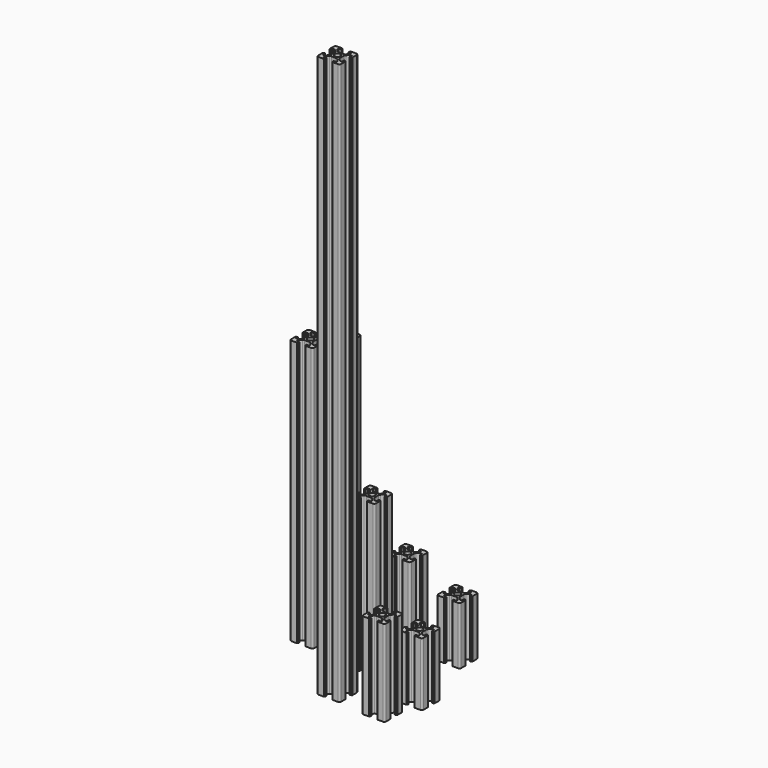
from build123d import *

# Parameters (mm, degrees)
F0_R      = 2.5
F1_DEPTH  = 192
F2_R      = 2.5
F3_DEPTH  = 230
F4_R      = 2.5
F5_DEPTH  = 60
F6_R      = 2.5
F7_DEPTH  = 132
F8_R      = 2.5
F9_DEPTH  = 488
F10_R     = 2.5
F11_DEPTH = 50
F12_R     = 2.5
F13_DEPTH = 55
F14_R     = 2.5
F15_DEPTH = 75


with BuildPart() as f1:
    # F0 (on Top) → F1 (new body)
    with BuildSketch(Plane.XY):
        with BuildLine():
            Line((-233.802474, 78.483754), (-230.802474, 78.483754))
            ThreePointArc((-230.802474, 78.483754), (-229.741813, 78.923094), (-229.302474, 79.983754))
            Line((-229.302474, 79.983754), (-229.302474, 82.983754))
            Line((-229.302474, 82.983754), (-229.302474, 84.883754))
            Line((-229.302474, 84.883754), (-229.602474, 84.883754))
            ThreePointArc((-229.602474, 84.883754), (-229.743895, 84.942332), (-229.802474, 85.083754))
            Line((-229.802474, 85.083754), (-229.802474, 85.383754))
            Line((-229.802474, 85.383754), (-231.102474, 85.383754))
            Line((-231.102474, 85.383754), (-231.102474, 82.983754))
            Line((-231.102474, 82.983754), (-232.741813, 82.983754))
            Line((-232.741813, 82.983754), (-234.816687, 85.058627))
            ThreePointArc((-234.816687, 85.058627), (-235.250233, 85.707474), (-235.402474, 86.472841))
            Line((-235.402474, 86.472841), (-235.402474, 90.494666))
            ThreePointArc((-235.402474, 90.494666), (-235.250233, 91.260033), (-234.816687, 91.90888))
            Line((-234.816687, 91.90888), (-232.741813, 93.983754))
            Line((-232.741813, 93.983754), (-231.102474, 93.983754))
            Line((-231.102474, 93.983754), (-231.102474, 91.583754))
            Line((-231.102474, 91.583754), (-229.802474, 91.583754))
            Line((-229.802474, 91.583754), (-229.802474, 91.883754))
            ThreePointArc((-229.802474, 91.883754), (-229.743895, 92.025175), (-229.602474, 92.083754))
            Line((-229.602474, 92.083754), (-229.302474, 92.083754))
            Line((-229.302474, 92.083754), (-229.302474, 93.983754))
            Line((-229.302474, 93.983754), (-229.302474, 96.983754))
            ThreePointArc((-229.302474, 96.983754), (-229.741813, 98.044414), (-230.802474, 98.483754))
            Line((-230.802474, 98.483754), (-233.802474, 98.483754))
            Line((-233.802474, 98.483754), (-235.202474, 98.483754))
            Line((-235.202474, 98.483754), (-235.702474, 98.483754))
            Line((-235.702474, 98.483754), (-235.702474, 98.183754))
            ThreePointArc((-235.702474, 98.183754), (-235.761052, 98.042332), (-235.902474, 97.983754))
            Line((-235.902474, 97.983754), (-236.202474, 97.983754))
            Line((-236.202474, 97.983754), (-236.202474, 96.683754))
            Line((-236.202474, 96.683754), (-233.802474, 96.683754))
            Line((-233.802474, 96.683754), (-233.802474, 95.044414))
            Line((-233.802474, 95.044414), (-235.877347, 92.96954))
            ThreePointArc((-235.877347, 92.96954), (-236.526194, 92.535995), (-237.291561, 92.383754))
            Line((-237.291561, 92.383754), (-241.313386, 92.383754))
            ThreePointArc((-241.313386, 92.383754), (-242.078753, 92.535995), (-242.7276, 92.96954))
            Line((-242.7276, 92.96954), (-244.802474, 95.044414))
            Line((-244.802474, 95.044414), (-244.802474, 96.683754))
            Line((-244.802474, 96.683754), (-242.402474, 96.683754))
            Line((-242.402474, 96.683754), (-242.402474, 97.983754))
            Line((-242.402474, 97.983754), (-242.702474, 97.983754))
            ThreePointArc((-242.702474, 97.983754), (-242.843895, 98.042332), (-242.902474, 98.183754))
            Line((-242.902474, 98.183754), (-242.902474, 98.483754))
            Line((-242.902474, 98.483754), (-243.402474, 98.483754))
            Line((-243.402474, 98.483754), (-244.802474, 98.483754))
            Line((-244.802474, 98.483754), (-247.802474, 98.483754))
            ThreePointArc((-247.802474, 98.483754), (-248.863134, 98.044414), (-249.302474, 96.983754))
            Line((-249.302474, 96.983754), (-249.302474, 93.983754))
            Line((-249.302474, 93.983754), (-249.302474, 92.083754))
            Line((-249.302474, 92.083754), (-249.002474, 92.083754))
            ThreePointArc((-249.002474, 92.083754), (-248.861052, 92.025175), (-248.802474, 91.883754))
            Line((-248.802474, 91.883754), (-248.802474, 91.583754))
            Line((-248.802474, 91.583754), (-247.502474, 91.583754))
            Line((-247.502474, 91.583754), (-247.502474, 93.983754))
            Line((-247.502474, 93.983754), (-245.863134, 93.983754))
            Line((-245.863134, 93.983754), (-243.78826, 91.90888))
            ThreePointArc((-243.78826, 91.90888), (-243.354715, 91.260033), (-243.202474, 90.494666))
            Line((-243.202474, 90.494666), (-243.202474, 86.472841))
            ThreePointArc((-243.202474, 86.472841), (-243.354715, 85.707474), (-243.78826, 85.058627))
            Line((-243.78826, 85.058627), (-245.863134, 82.983754))
            Line((-245.863134, 82.983754), (-247.502474, 82.983754))
            Line((-247.502474, 82.983754), (-247.502474, 85.383754))
            Line((-247.502474, 85.383754), (-248.802474, 85.383754))
            Line((-248.802474, 85.383754), (-248.802474, 85.083754))
            ThreePointArc((-248.802474, 85.083754), (-248.861052, 84.942332), (-249.002474, 84.883754))
            Line((-249.002474, 84.883754), (-249.302474, 84.883754))
            Line((-249.302474, 84.883754), (-249.302474, 82.983754))
            Line((-249.302474, 82.983754), (-249.302474, 79.983754))
            ThreePointArc((-249.302474, 79.983754), (-248.863134, 78.923094), (-247.802474, 78.483754))
            Line((-247.802474, 78.483754), (-244.802474, 78.483754))
            Line((-244.802474, 78.483754), (-243.402474, 78.483754))
            Line((-243.402474, 78.483754), (-242.902474, 78.483754))
            Line((-242.902474, 78.483754), (-242.902474, 78.783754))
            ThreePointArc((-242.902474, 78.783754), (-242.843895, 78.925175), (-242.702474, 78.983754))
            Line((-242.702474, 78.983754), (-242.402474, 78.983754))
            Line((-242.402474, 78.983754), (-242.402474, 80.283754))
            Line((-242.402474, 80.283754), (-244.802474, 80.283754))
            Line((-244.802474, 80.283754), (-244.802474, 81.923094))
            Line((-244.802474, 81.923094), (-242.7276, 83.997967))
            ThreePointArc((-242.7276, 83.997967), (-242.078753, 84.431513), (-241.313386, 84.583754))
            Line((-241.313386, 84.583754), (-237.291561, 84.583754))
            ThreePointArc((-237.291561, 84.583754), (-236.526194, 84.431513), (-235.877347, 83.997967))
            Line((-235.877347, 83.997967), (-233.802474, 81.923094))
            Line((-233.802474, 81.923094), (-233.802474, 80.283754))
            Line((-233.802474, 80.283754), (-236.202474, 80.283754))
            Line((-236.202474, 80.283754), (-236.202474, 78.983754))
            Line((-236.202474, 78.983754), (-235.902474, 78.983754))
            ThreePointArc((-235.902474, 78.983754), (-235.761052, 78.925175), (-235.702474, 78.783754))
            Line((-235.702474, 78.783754), (-235.702474, 78.483754))
            Line((-235.702474, 78.483754), (-235.202474, 78.483754))
            Line((-235.202474, 78.483754), (-233.802474, 78.483754))
        make_face()
        with Locations((-239.302474, 88.483754)):
            Circle(F0_R, mode=Mode.SUBTRACT)
    extrude(amount=F1_DEPTH)


with BuildPart() as f3:
    # F2 (on Top) → F3 (new body)
    with BuildSketch(Plane.XY):
        with BuildLine():
            Line((-201.904392, 5.549288), (-198.904392, 5.549288))
            ThreePointArc((-198.904392, 5.549288), (-197.843732, 5.988628), (-197.404392, 7.049288))
            Line((-197.404392, 7.049288), (-197.404392, 10.049288))
            Line((-197.404392, 10.049288), (-197.404392, 11.949288))
            Line((-197.404392, 11.949288), (-197.704392, 11.949288))
            ThreePointArc((-197.704392, 11.949288), (-197.845814, 12.007867), (-197.904392, 12.149288))
            Line((-197.904392, 12.149288), (-197.904392, 12.449288))
            Line((-197.904392, 12.449288), (-199.204392, 12.449288))
            Line((-199.204392, 12.449288), (-199.204392, 10.049288))
            Line((-199.204392, 10.049288), (-200.843732, 10.049288))
            Line((-200.843732, 10.049288), (-202.918606, 12.124162))
            ThreePointArc((-202.918606, 12.124162), (-203.352151, 12.773009), (-203.504392, 13.538376))
            Line((-203.504392, 13.538376), (-203.504392, 17.560201))
            ThreePointArc((-203.504392, 17.560201), (-203.352151, 18.325568), (-202.918606, 18.974415))
            Line((-202.918606, 18.974415), (-200.843732, 21.049288))
            Line((-200.843732, 21.049288), (-199.204392, 21.049288))
            Line((-199.204392, 21.049288), (-199.204392, 18.649288))
            Line((-199.204392, 18.649288), (-197.904392, 18.649288))
            Line((-197.904392, 18.649288), (-197.904392, 18.949288))
            ThreePointArc((-197.904392, 18.949288), (-197.845814, 19.09071), (-197.704392, 19.149288))
            Line((-197.704392, 19.149288), (-197.404392, 19.149288))
            Line((-197.404392, 19.149288), (-197.404392, 21.049288))
            Line((-197.404392, 21.049288), (-197.404392, 24.049288))
            ThreePointArc((-197.404392, 24.049288), (-197.843732, 25.109948), (-198.904392, 25.549288))
            Line((-198.904392, 25.549288), (-201.904392, 25.549288))
            Line((-201.904392, 25.549288), (-203.304392, 25.549288))
            Line((-203.304392, 25.549288), (-203.804392, 25.549288))
            Line((-203.804392, 25.549288), (-203.804392, 25.249288))
            ThreePointArc((-203.804392, 25.249288), (-203.862971, 25.107867), (-204.004392, 25.049288))
            Line((-204.004392, 25.049288), (-204.304392, 25.049288))
            Line((-204.304392, 25.049288), (-204.304392, 23.749288))
            Line((-204.304392, 23.749288), (-201.904392, 23.749288))
            Line((-201.904392, 23.749288), (-201.904392, 22.109948))
            Line((-201.904392, 22.109948), (-203.979266, 20.035075))
            ThreePointArc((-203.979266, 20.035075), (-204.628113, 19.601529), (-205.39348, 19.449288))
            Line((-205.39348, 19.449288), (-209.415305, 19.449288))
            ThreePointArc((-209.415305, 19.449288), (-210.180672, 19.601529), (-210.829519, 20.035075))
            Line((-210.829519, 20.035075), (-212.904392, 22.109948))
            Line((-212.904392, 22.109948), (-212.904392, 23.749288))
            Line((-212.904392, 23.749288), (-210.504392, 23.749288))
            Line((-210.504392, 23.749288), (-210.504392, 25.049288))
            Line((-210.504392, 25.049288), (-210.804392, 25.049288))
            ThreePointArc((-210.804392, 25.049288), (-210.945814, 25.107867), (-211.004392, 25.249288))
            Line((-211.004392, 25.249288), (-211.004392, 25.549288))
            Line((-211.004392, 25.549288), (-211.504392, 25.549288))
            Line((-211.504392, 25.549288), (-212.904392, 25.549288))
            Line((-212.904392, 25.549288), (-215.904392, 25.549288))
            ThreePointArc((-215.904392, 25.549288), (-216.965053, 25.109948), (-217.404392, 24.049288))
            Line((-217.404392, 24.049288), (-217.404392, 21.049288))
            Line((-217.404392, 21.049288), (-217.404392, 19.149288))
            Line((-217.404392, 19.149288), (-217.104392, 19.149288))
            ThreePointArc((-217.104392, 19.149288), (-216.962971, 19.09071), (-216.904392, 18.949288))
            Line((-216.904392, 18.949288), (-216.904392, 18.649288))
            Line((-216.904392, 18.649288), (-215.604392, 18.649288))
            Line((-215.604392, 18.649288), (-215.604392, 21.049288))
            Line((-215.604392, 21.049288), (-213.965053, 21.049288))
            Line((-213.965053, 21.049288), (-211.890179, 18.974415))
            ThreePointArc((-211.890179, 18.974415), (-211.456633, 18.325568), (-211.304392, 17.560201))
            Line((-211.304392, 17.560201), (-211.304392, 13.538376))
            ThreePointArc((-211.304392, 13.538376), (-211.456633, 12.773009), (-211.890179, 12.124162))
            Line((-211.890179, 12.124162), (-213.965053, 10.049288))
            Line((-213.965053, 10.049288), (-215.604392, 10.049288))
            Line((-215.604392, 10.049288), (-215.604392, 12.449288))
            Line((-215.604392, 12.449288), (-216.904392, 12.449288))
            Line((-216.904392, 12.449288), (-216.904392, 12.149288))
            ThreePointArc((-216.904392, 12.149288), (-216.962971, 12.007867), (-217.104392, 11.949288))
            Line((-217.104392, 11.949288), (-217.404392, 11.949288))
            Line((-217.404392, 11.949288), (-217.404392, 10.049288))
            Line((-217.404392, 10.049288), (-217.404392, 7.049288))
            ThreePointArc((-217.404392, 7.049288), (-216.965053, 5.988628), (-215.904392, 5.549288))
            Line((-215.904392, 5.549288), (-212.904392, 5.549288))
            Line((-212.904392, 5.549288), (-211.504392, 5.549288))
            Line((-211.504392, 5.549288), (-211.004392, 5.549288))
            Line((-211.004392, 5.549288), (-211.004392, 5.849288))
            ThreePointArc((-211.004392, 5.849288), (-210.945814, 5.99071), (-210.804392, 6.049288))
            Line((-210.804392, 6.049288), (-210.504392, 6.049288))
            Line((-210.504392, 6.049288), (-210.504392, 7.349288))
            Line((-210.504392, 7.349288), (-212.904392, 7.349288))
            Line((-212.904392, 7.349288), (-212.904392, 8.988628))
            Line((-212.904392, 8.988628), (-210.829519, 11.063502))
            ThreePointArc((-210.829519, 11.063502), (-210.180672, 11.497047), (-209.415305, 11.649288))
            Line((-209.415305, 11.649288), (-205.39348, 11.649288))
            ThreePointArc((-205.39348, 11.649288), (-204.628113, 11.497047), (-203.979266, 11.063502))
            Line((-203.979266, 11.063502), (-201.904392, 8.988628))
            Line((-201.904392, 8.988628), (-201.904392, 7.349288))
            Line((-201.904392, 7.349288), (-204.304392, 7.349288))
            Line((-204.304392, 7.349288), (-204.304392, 6.049288))
            Line((-204.304392, 6.049288), (-204.004392, 6.049288))
            ThreePointArc((-204.004392, 6.049288), (-203.862971, 5.99071), (-203.804392, 5.849288))
            Line((-203.804392, 5.849288), (-203.804392, 5.549288))
            Line((-203.804392, 5.549288), (-203.304392, 5.549288))
            Line((-203.304392, 5.549288), (-201.904392, 5.549288))
        make_face()
        with Locations((-207.404392, 15.549288)):
            Circle(F2_R, mode=Mode.SUBTRACT)
    extrude(amount=F3_DEPTH)


with BuildPart() as f5:
    # F4 (on Top) → F5 (new body)
    with BuildSketch(Plane.XY):
        with BuildLine():
            Line((-157.749748, 55.951112), (-154.749748, 55.951112))
            ThreePointArc((-154.749748, 55.951112), (-153.689088, 56.390452), (-153.249748, 57.451112))
            Line((-153.249748, 57.451112), (-153.249748, 60.451112))
            Line((-153.249748, 60.451112), (-153.249748, 62.351112))
            Line((-153.249748, 62.351112), (-153.549748, 62.351112))
            ThreePointArc((-153.549748, 62.351112), (-153.69117, 62.40969), (-153.749748, 62.551112))
            Line((-153.749748, 62.551112), (-153.749748, 62.851112))
            Line((-153.749748, 62.851112), (-155.049748, 62.851112))
            Line((-155.049748, 62.851112), (-155.049748, 60.451112))
            Line((-155.049748, 60.451112), (-156.689088, 60.451112))
            Line((-156.689088, 60.451112), (-158.763962, 62.525986))
            ThreePointArc((-158.763962, 62.525986), (-159.197507, 63.174832), (-159.349748, 63.940199))
            Line((-159.349748, 63.940199), (-159.349748, 67.962025))
            ThreePointArc((-159.349748, 67.962025), (-159.197507, 68.727391), (-158.763962, 69.376238))
            Line((-158.763962, 69.376238), (-156.689088, 71.451112))
            Line((-156.689088, 71.451112), (-155.049748, 71.451112))
            Line((-155.049748, 71.451112), (-155.049748, 69.051112))
            Line((-155.049748, 69.051112), (-153.749748, 69.051112))
            Line((-153.749748, 69.051112), (-153.749748, 69.351112))
            ThreePointArc((-153.749748, 69.351112), (-153.69117, 69.492533), (-153.549748, 69.551112))
            Line((-153.549748, 69.551112), (-153.249748, 69.551112))
            Line((-153.249748, 69.551112), (-153.249748, 71.451112))
            Line((-153.249748, 71.451112), (-153.249748, 74.451112))
            ThreePointArc((-153.249748, 74.451112), (-153.689088, 75.511772), (-154.749748, 75.951112))
            Line((-154.749748, 75.951112), (-157.749748, 75.951112))
            Line((-157.749748, 75.951112), (-159.149748, 75.951112))
            Line((-159.149748, 75.951112), (-159.649748, 75.951112))
            Line((-159.649748, 75.951112), (-159.649748, 75.651112))
            ThreePointArc((-159.649748, 75.651112), (-159.708327, 75.50969), (-159.849748, 75.451112))
            Line((-159.849748, 75.451112), (-160.149748, 75.451112))
            Line((-160.149748, 75.451112), (-160.149748, 74.151112))
            Line((-160.149748, 74.151112), (-157.749748, 74.151112))
            Line((-157.749748, 74.151112), (-157.749748, 72.511772))
            Line((-157.749748, 72.511772), (-159.824622, 70.436898))
            ThreePointArc((-159.824622, 70.436898), (-160.473469, 70.003353), (-161.238836, 69.851112))
            Line((-161.238836, 69.851112), (-165.260661, 69.851112))
            ThreePointArc((-165.260661, 69.851112), (-166.026028, 70.003353), (-166.674875, 70.436898))
            Line((-166.674875, 70.436898), (-168.749748, 72.511772))
            Line((-168.749748, 72.511772), (-168.749748, 74.151112))
            Line((-168.749748, 74.151112), (-166.349748, 74.151112))
            Line((-166.349748, 74.151112), (-166.349748, 75.451112))
            Line((-166.349748, 75.451112), (-166.649748, 75.451112))
            ThreePointArc((-166.649748, 75.451112), (-166.79117, 75.50969), (-166.849748, 75.651112))
            Line((-166.849748, 75.651112), (-166.849748, 75.951112))
            Line((-166.849748, 75.951112), (-167.349748, 75.951112))
            Line((-167.349748, 75.951112), (-168.749748, 75.951112))
            Line((-168.749748, 75.951112), (-171.749748, 75.951112))
            ThreePointArc((-171.749748, 75.951112), (-172.810408, 75.511772), (-173.249748, 74.451112))
            Line((-173.249748, 74.451112), (-173.249748, 71.451112))
            Line((-173.249748, 71.451112), (-173.249748, 69.551112))
            Line((-173.249748, 69.551112), (-172.949748, 69.551112))
            ThreePointArc((-172.949748, 69.551112), (-172.808327, 69.492533), (-172.749748, 69.351112))
            Line((-172.749748, 69.351112), (-172.749748, 69.051112))
            Line((-172.749748, 69.051112), (-171.449748, 69.051112))
            Line((-171.449748, 69.051112), (-171.449748, 71.451112))
            Line((-171.449748, 71.451112), (-169.810408, 71.451112))
            Line((-169.810408, 71.451112), (-167.735535, 69.376238))
            ThreePointArc((-167.735535, 69.376238), (-167.301989, 68.727391), (-167.149748, 67.962025))
            Line((-167.149748, 67.962025), (-167.149748, 63.940199))
            ThreePointArc((-167.149748, 63.940199), (-167.301989, 63.174832), (-167.735535, 62.525986))
            Line((-167.735535, 62.525986), (-169.810408, 60.451112))
            Line((-169.810408, 60.451112), (-171.449748, 60.451112))
            Line((-171.449748, 60.451112), (-171.449748, 62.851112))
            Line((-171.449748, 62.851112), (-172.749748, 62.851112))
            Line((-172.749748, 62.851112), (-172.749748, 62.551112))
            ThreePointArc((-172.749748, 62.551112), (-172.808327, 62.40969), (-172.949748, 62.351112))
            Line((-172.949748, 62.351112), (-173.249748, 62.351112))
            Line((-173.249748, 62.351112), (-173.249748, 60.451112))
            Line((-173.249748, 60.451112), (-173.249748, 57.451112))
            ThreePointArc((-173.249748, 57.451112), (-172.810408, 56.390452), (-171.749748, 55.951112))
            Line((-171.749748, 55.951112), (-168.749748, 55.951112))
            Line((-168.749748, 55.951112), (-167.349748, 55.951112))
            Line((-167.349748, 55.951112), (-166.849748, 55.951112))
            Line((-166.849748, 55.951112), (-166.849748, 56.251112))
            ThreePointArc((-166.849748, 56.251112), (-166.79117, 56.392533), (-166.649748, 56.451112))
            Line((-166.649748, 56.451112), (-166.349748, 56.451112))
            Line((-166.349748, 56.451112), (-166.349748, 57.751112))
            Line((-166.349748, 57.751112), (-168.749748, 57.751112))
            Line((-168.749748, 57.751112), (-168.749748, 59.390452))
            Line((-168.749748, 59.390452), (-166.674875, 61.465325))
            ThreePointArc((-166.674875, 61.465325), (-166.026028, 61.898871), (-165.260661, 62.051112))
            Line((-165.260661, 62.051112), (-161.238836, 62.051112))
            ThreePointArc((-161.238836, 62.051112), (-160.473469, 61.898871), (-159.824622, 61.465325))
            Line((-159.824622, 61.465325), (-157.749748, 59.390452))
            Line((-157.749748, 59.390452), (-157.749748, 57.751112))
            Line((-157.749748, 57.751112), (-160.149748, 57.751112))
            Line((-160.149748, 57.751112), (-160.149748, 56.451112))
            Line((-160.149748, 56.451112), (-159.849748, 56.451112))
            ThreePointArc((-159.849748, 56.451112), (-159.708327, 56.392533), (-159.649748, 56.251112))
            Line((-159.649748, 56.251112), (-159.649748, 55.951112))
            Line((-159.649748, 55.951112), (-159.149748, 55.951112))
            Line((-159.149748, 55.951112), (-157.749748, 55.951112))
        make_face()
        with Locations((-163.249748, 65.951112)):
            Circle(F4_R, mode=Mode.SUBTRACT)
    extrude(amount=F5_DEPTH)


with BuildPart() as f7:
    # F6 (on Top) → F7 (new body)
    with BuildSketch(Plane.XY):
        with BuildLine():
            Line((-143.767393, -0.0221), (-140.767393, -0.0221))
            ThreePointArc((-140.767393, -0.0221), (-139.706733, 0.417239), (-139.267393, 1.4779))
            Line((-139.267393, 1.4779), (-139.267393, 4.4779))
            Line((-139.267393, 4.4779), (-139.267393, 6.3779))
            Line((-139.267393, 6.3779), (-139.567393, 6.3779))
            ThreePointArc((-139.567393, 6.3779), (-139.708814, 6.436478), (-139.767393, 6.5779))
            Line((-139.767393, 6.5779), (-139.767393, 6.8779))
            Line((-139.767393, 6.8779), (-141.067393, 6.8779))
            Line((-141.067393, 6.8779), (-141.067393, 4.4779))
            Line((-141.067393, 4.4779), (-142.706733, 4.4779))
            Line((-142.706733, 4.4779), (-144.781606, 6.552773))
            ThreePointArc((-144.781606, 6.552773), (-145.215152, 7.20162), (-145.367393, 7.966987))
            Line((-145.367393, 7.966987), (-145.367393, 11.988812))
            ThreePointArc((-145.367393, 11.988812), (-145.215152, 12.754179), (-144.781606, 13.403026))
            Line((-144.781606, 13.403026), (-142.706733, 15.4779))
            Line((-142.706733, 15.4779), (-141.067393, 15.4779))
            Line((-141.067393, 15.4779), (-141.067393, 13.0779))
            Line((-141.067393, 13.0779), (-139.767393, 13.0779))
            Line((-139.767393, 13.0779), (-139.767393, 13.3779))
            ThreePointArc((-139.767393, 13.3779), (-139.708814, 13.519321), (-139.567393, 13.5779))
            Line((-139.567393, 13.5779), (-139.267393, 13.5779))
            Line((-139.267393, 13.5779), (-139.267393, 15.4779))
            Line((-139.267393, 15.4779), (-139.267393, 18.4779))
            ThreePointArc((-139.267393, 18.4779), (-139.706733, 19.53856), (-140.767393, 19.9779))
            Line((-140.767393, 19.9779), (-143.767393, 19.9779))
            Line((-143.767393, 19.9779), (-145.167393, 19.9779))
            Line((-145.167393, 19.9779), (-145.667393, 19.9779))
            Line((-145.667393, 19.9779), (-145.667393, 19.6779))
            ThreePointArc((-145.667393, 19.6779), (-145.725971, 19.536478), (-145.867393, 19.4779))
            Line((-145.867393, 19.4779), (-146.167393, 19.4779))
            Line((-146.167393, 19.4779), (-146.167393, 18.1779))
            Line((-146.167393, 18.1779), (-143.767393, 18.1779))
            Line((-143.767393, 18.1779), (-143.767393, 16.53856))
            Line((-143.767393, 16.53856), (-145.842266, 14.463686))
            ThreePointArc((-145.842266, 14.463686), (-146.491113, 14.030141), (-147.25648, 13.8779))
            Line((-147.25648, 13.8779), (-151.278305, 13.8779))
            ThreePointArc((-151.278305, 13.8779), (-152.043672, 14.030141), (-152.692519, 14.463686))
            Line((-152.692519, 14.463686), (-154.767393, 16.53856))
            Line((-154.767393, 16.53856), (-154.767393, 18.1779))
            Line((-154.767393, 18.1779), (-152.367393, 18.1779))
            Line((-152.367393, 18.1779), (-152.367393, 19.4779))
            Line((-152.367393, 19.4779), (-152.667393, 19.4779))
            ThreePointArc((-152.667393, 19.4779), (-152.808814, 19.536478), (-152.867393, 19.6779))
            Line((-152.867393, 19.6779), (-152.867393, 19.9779))
            Line((-152.867393, 19.9779), (-153.367393, 19.9779))
            Line((-153.367393, 19.9779), (-154.767393, 19.9779))
            Line((-154.767393, 19.9779), (-157.767393, 19.9779))
            ThreePointArc((-157.767393, 19.9779), (-158.828053, 19.53856), (-159.267393, 18.4779))
            Line((-159.267393, 18.4779), (-159.267393, 15.4779))
            Line((-159.267393, 15.4779), (-159.267393, 13.5779))
            Line((-159.267393, 13.5779), (-158.967393, 13.5779))
            ThreePointArc((-158.967393, 13.5779), (-158.825971, 13.519321), (-158.767393, 13.3779))
            Line((-158.767393, 13.3779), (-158.767393, 13.0779))
            Line((-158.767393, 13.0779), (-157.467393, 13.0779))
            Line((-157.467393, 13.0779), (-157.467393, 15.4779))
            Line((-157.467393, 15.4779), (-155.828053, 15.4779))
            Line((-155.828053, 15.4779), (-153.753179, 13.403026))
            ThreePointArc((-153.753179, 13.403026), (-153.319634, 12.754179), (-153.167393, 11.988812))
            Line((-153.167393, 11.988812), (-153.167393, 7.966987))
            ThreePointArc((-153.167393, 7.966987), (-153.319634, 7.20162), (-153.753179, 6.552773))
            Line((-153.753179, 6.552773), (-155.828053, 4.4779))
            Line((-155.828053, 4.4779), (-157.467393, 4.4779))
            Line((-157.467393, 4.4779), (-157.467393, 6.8779))
            Line((-157.467393, 6.8779), (-158.767393, 6.8779))
            Line((-158.767393, 6.8779), (-158.767393, 6.5779))
            ThreePointArc((-158.767393, 6.5779), (-158.825971, 6.436478), (-158.967393, 6.3779))
            Line((-158.967393, 6.3779), (-159.267393, 6.3779))
            Line((-159.267393, 6.3779), (-159.267393, 4.4779))
            Line((-159.267393, 4.4779), (-159.267393, 1.4779))
            ThreePointArc((-159.267393, 1.4779), (-158.828053, 0.417239), (-157.767393, -0.0221))
            Line((-157.767393, -0.0221), (-154.767393, -0.0221))
            Line((-154.767393, -0.0221), (-153.367393, -0.0221))
            Line((-153.367393, -0.0221), (-152.867393, -0.0221))
            Line((-152.867393, -0.0221), (-152.867393, 0.2779))
            ThreePointArc((-152.867393, 0.2779), (-152.808814, 0.419321), (-152.667393, 0.4779))
            Line((-152.667393, 0.4779), (-152.367393, 0.4779))
            Line((-152.367393, 0.4779), (-152.367393, 1.7779))
            Line((-152.367393, 1.7779), (-154.767393, 1.7779))
            Line((-154.767393, 1.7779), (-154.767393, 3.417239))
            Line((-154.767393, 3.417239), (-152.692519, 5.492113))
            ThreePointArc((-152.692519, 5.492113), (-152.043672, 5.925659), (-151.278305, 6.0779))
            Line((-151.278305, 6.0779), (-147.25648, 6.0779))
            ThreePointArc((-147.25648, 6.0779), (-146.491113, 5.925659), (-145.842266, 5.492113))
            Line((-145.842266, 5.492113), (-143.767393, 3.417239))
            Line((-143.767393, 3.417239), (-143.767393, 1.7779))
            Line((-143.767393, 1.7779), (-146.167393, 1.7779))
            Line((-146.167393, 1.7779), (-146.167393, 0.4779))
            Line((-146.167393, 0.4779), (-145.867393, 0.4779))
            ThreePointArc((-145.867393, 0.4779), (-145.725971, 0.419321), (-145.667393, 0.2779))
            Line((-145.667393, 0.2779), (-145.667393, -0.0221))
            Line((-145.667393, -0.0221), (-145.167393, -0.0221))
            Line((-145.167393, -0.0221), (-143.767393, -0.0221))
        make_face()
        with Locations((-149.267393, 9.9779)):
            Circle(F6_R, mode=Mode.SUBTRACT)
    extrude(amount=F7_DEPTH)


with BuildPart() as f9:
    # F8 (on Top) → F9 (new body)
    with BuildSketch(Plane.XY):
        with BuildLine():
            Line((-138.51971, -44.354267), (-135.51971, -44.354267))
            ThreePointArc((-135.51971, -44.354267), (-134.45905, -43.914927), (-134.01971, -42.854267))
            Line((-134.01971, -42.854267), (-134.01971, -39.854267))
            Line((-134.01971, -39.854267), (-134.01971, -37.954267))
            Line((-134.01971, -37.954267), (-134.31971, -37.954267))
            ThreePointArc((-134.31971, -37.954267), (-134.461132, -37.895688), (-134.51971, -37.754267))
            Line((-134.51971, -37.754267), (-134.51971, -37.454267))
            Line((-134.51971, -37.454267), (-135.81971, -37.454267))
            Line((-135.81971, -37.454267), (-135.81971, -39.854267))
            Line((-135.81971, -39.854267), (-137.45905, -39.854267))
            Line((-137.45905, -39.854267), (-139.533924, -37.779393))
            ThreePointArc((-139.533924, -37.779393), (-139.967469, -37.130546), (-140.11971, -36.365179))
            Line((-140.11971, -36.365179), (-140.11971, -32.343354))
            ThreePointArc((-140.11971, -32.343354), (-139.967469, -31.577987), (-139.533924, -30.92914))
            Line((-139.533924, -30.92914), (-137.45905, -28.854267))
            Line((-137.45905, -28.854267), (-135.81971, -28.854267))
            Line((-135.81971, -28.854267), (-135.81971, -31.254267))
            Line((-135.81971, -31.254267), (-134.51971, -31.254267))
            Line((-134.51971, -31.254267), (-134.51971, -30.954267))
            ThreePointArc((-134.51971, -30.954267), (-134.461132, -30.812845), (-134.31971, -30.754267))
            Line((-134.31971, -30.754267), (-134.01971, -30.754267))
            Line((-134.01971, -30.754267), (-134.01971, -28.854267))
            Line((-134.01971, -28.854267), (-134.01971, -25.854267))
            ThreePointArc((-134.01971, -25.854267), (-134.45905, -24.793606), (-135.51971, -24.354267))
            Line((-135.51971, -24.354267), (-138.51971, -24.354267))
            Line((-138.51971, -24.354267), (-139.91971, -24.354267))
            Line((-139.91971, -24.354267), (-140.41971, -24.354267))
            Line((-140.41971, -24.354267), (-140.41971, -24.654267))
            ThreePointArc((-140.41971, -24.654267), (-140.478289, -24.795688), (-140.61971, -24.854267))
            Line((-140.61971, -24.854267), (-140.91971, -24.854267))
            Line((-140.91971, -24.854267), (-140.91971, -26.154267))
            Line((-140.91971, -26.154267), (-138.51971, -26.154267))
            Line((-138.51971, -26.154267), (-138.51971, -27.793606))
            Line((-138.51971, -27.793606), (-140.594584, -29.86848))
            ThreePointArc((-140.594584, -29.86848), (-141.243431, -30.302026), (-142.008798, -30.454267))
            Line((-142.008798, -30.454267), (-146.030623, -30.454267))
            ThreePointArc((-146.030623, -30.454267), (-146.79599, -30.302026), (-147.444837, -29.86848))
            Line((-147.444837, -29.86848), (-149.51971, -27.793606))
            Line((-149.51971, -27.793606), (-149.51971, -26.154267))
            Line((-149.51971, -26.154267), (-147.11971, -26.154267))
            Line((-147.11971, -26.154267), (-147.11971, -24.854267))
            Line((-147.11971, -24.854267), (-147.41971, -24.854267))
            ThreePointArc((-147.41971, -24.854267), (-147.561132, -24.795688), (-147.61971, -24.654267))
            Line((-147.61971, -24.654267), (-147.61971, -24.354267))
            Line((-147.61971, -24.354267), (-148.11971, -24.354267))
            Line((-148.11971, -24.354267), (-149.51971, -24.354267))
            Line((-149.51971, -24.354267), (-152.51971, -24.354267))
            ThreePointArc((-152.51971, -24.354267), (-153.580371, -24.793606), (-154.01971, -25.854267))
            Line((-154.01971, -25.854267), (-154.01971, -28.854267))
            Line((-154.01971, -28.854267), (-154.01971, -30.754267))
            Line((-154.01971, -30.754267), (-153.71971, -30.754267))
            ThreePointArc((-153.71971, -30.754267), (-153.578289, -30.812845), (-153.51971, -30.954267))
            Line((-153.51971, -30.954267), (-153.51971, -31.254267))
            Line((-153.51971, -31.254267), (-152.21971, -31.254267))
            Line((-152.21971, -31.254267), (-152.21971, -28.854267))
            Line((-152.21971, -28.854267), (-150.580371, -28.854267))
            Line((-150.580371, -28.854267), (-148.505497, -30.92914))
            ThreePointArc((-148.505497, -30.92914), (-148.071951, -31.577987), (-147.91971, -32.343354))
            Line((-147.91971, -32.343354), (-147.91971, -36.365179))
            ThreePointArc((-147.91971, -36.365179), (-148.071951, -37.130546), (-148.505497, -37.779393))
            Line((-148.505497, -37.779393), (-150.580371, -39.854267))
            Line((-150.580371, -39.854267), (-152.21971, -39.854267))
            Line((-152.21971, -39.854267), (-152.21971, -37.454267))
            Line((-152.21971, -37.454267), (-153.51971, -37.454267))
            Line((-153.51971, -37.454267), (-153.51971, -37.754267))
            ThreePointArc((-153.51971, -37.754267), (-153.578289, -37.895688), (-153.71971, -37.954267))
            Line((-153.71971, -37.954267), (-154.01971, -37.954267))
            Line((-154.01971, -37.954267), (-154.01971, -39.854267))
            Line((-154.01971, -39.854267), (-154.01971, -42.854267))
            ThreePointArc((-154.01971, -42.854267), (-153.580371, -43.914927), (-152.51971, -44.354267))
            Line((-152.51971, -44.354267), (-149.51971, -44.354267))
            Line((-149.51971, -44.354267), (-148.11971, -44.354267))
            Line((-148.11971, -44.354267), (-147.61971, -44.354267))
            Line((-147.61971, -44.354267), (-147.61971, -44.054267))
            ThreePointArc((-147.61971, -44.054267), (-147.561132, -43.912845), (-147.41971, -43.854267))
            Line((-147.41971, -43.854267), (-147.11971, -43.854267))
            Line((-147.11971, -43.854267), (-147.11971, -42.554267))
            Line((-147.11971, -42.554267), (-149.51971, -42.554267))
            Line((-149.51971, -42.554267), (-149.51971, -40.914927))
            Line((-149.51971, -40.914927), (-147.444837, -38.840053))
            ThreePointArc((-147.444837, -38.840053), (-146.79599, -38.406508), (-146.030623, -38.254267))
            Line((-146.030623, -38.254267), (-142.008798, -38.254267))
            ThreePointArc((-142.008798, -38.254267), (-141.243431, -38.406508), (-140.594584, -38.840053))
            Line((-140.594584, -38.840053), (-138.51971, -40.914927))
            Line((-138.51971, -40.914927), (-138.51971, -42.554267))
            Line((-138.51971, -42.554267), (-140.91971, -42.554267))
            Line((-140.91971, -42.554267), (-140.91971, -43.854267))
            Line((-140.91971, -43.854267), (-140.61971, -43.854267))
            ThreePointArc((-140.61971, -43.854267), (-140.478289, -43.912845), (-140.41971, -44.054267))
            Line((-140.41971, -44.054267), (-140.41971, -44.354267))
            Line((-140.41971, -44.354267), (-139.91971, -44.354267))
            Line((-139.91971, -44.354267), (-138.51971, -44.354267))
        make_face()
        with Locations((-144.01971, -34.354267)):
            Circle(F8_R, mode=Mode.SUBTRACT)
    extrude(amount=F9_DEPTH)


with BuildPart() as f11:
    # F10 (on Top) → F11 (new body)
    with BuildSketch(Plane.XY):
        with BuildLine():
            Line((-105.761869, 45.189765), (-102.761869, 45.189765))
            ThreePointArc((-102.761869, 45.189765), (-101.701209, 45.629105), (-101.261869, 46.689765))
            Line((-101.261869, 46.689765), (-101.261869, 49.689765))
            Line((-101.261869, 49.689765), (-101.261869, 51.589765))
            Line((-101.261869, 51.589765), (-101.561869, 51.589765))
            ThreePointArc((-101.561869, 51.589765), (-101.703291, 51.648344), (-101.761869, 51.789765))
            Line((-101.761869, 51.789765), (-101.761869, 52.089765))
            Line((-101.761869, 52.089765), (-103.061869, 52.089765))
            Line((-103.061869, 52.089765), (-103.061869, 49.689765))
            Line((-103.061869, 49.689765), (-104.701209, 49.689765))
            Line((-104.701209, 49.689765), (-106.776083, 51.764639))
            ThreePointArc((-106.776083, 51.764639), (-107.209628, 52.413486), (-107.361869, 53.178852))
            Line((-107.361869, 53.178852), (-107.361869, 57.200678))
            ThreePointArc((-107.361869, 57.200678), (-107.209628, 57.966045), (-106.776083, 58.614891))
            Line((-106.776083, 58.614891), (-104.701209, 60.689765))
            Line((-104.701209, 60.689765), (-103.061869, 60.689765))
            Line((-103.061869, 60.689765), (-103.061869, 58.289765))
            Line((-103.061869, 58.289765), (-101.761869, 58.289765))
            Line((-101.761869, 58.289765), (-101.761869, 58.589765))
            ThreePointArc((-101.761869, 58.589765), (-101.703291, 58.731187), (-101.561869, 58.789765))
            Line((-101.561869, 58.789765), (-101.261869, 58.789765))
            Line((-101.261869, 58.789765), (-101.261869, 60.689765))
            Line((-101.261869, 60.689765), (-101.261869, 63.689765))
            ThreePointArc((-101.261869, 63.689765), (-101.701209, 64.750425), (-102.761869, 65.189765))
            Line((-102.761869, 65.189765), (-105.761869, 65.189765))
            Line((-105.761869, 65.189765), (-107.161869, 65.189765))
            Line((-107.161869, 65.189765), (-107.661869, 65.189765))
            Line((-107.661869, 65.189765), (-107.661869, 64.889765))
            ThreePointArc((-107.661869, 64.889765), (-107.720448, 64.748344), (-107.861869, 64.689765))
            Line((-107.861869, 64.689765), (-108.161869, 64.689765))
            Line((-108.161869, 64.689765), (-108.161869, 63.389765))
            Line((-108.161869, 63.389765), (-105.761869, 63.389765))
            Line((-105.761869, 63.389765), (-105.761869, 61.750425))
            Line((-105.761869, 61.750425), (-107.836743, 59.675552))
            ThreePointArc((-107.836743, 59.675552), (-108.48559, 59.242006), (-109.250957, 59.089765))
            Line((-109.250957, 59.089765), (-113.272782, 59.089765))
            ThreePointArc((-113.272782, 59.089765), (-114.038149, 59.242006), (-114.686996, 59.675552))
            Line((-114.686996, 59.675552), (-116.761869, 61.750425))
            Line((-116.761869, 61.750425), (-116.761869, 63.389765))
            Line((-116.761869, 63.389765), (-114.361869, 63.389765))
            Line((-114.361869, 63.389765), (-114.361869, 64.689765))
            Line((-114.361869, 64.689765), (-114.661869, 64.689765))
            ThreePointArc((-114.661869, 64.689765), (-114.803291, 64.748344), (-114.861869, 64.889765))
            Line((-114.861869, 64.889765), (-114.861869, 65.189765))
            Line((-114.861869, 65.189765), (-115.361869, 65.189765))
            Line((-115.361869, 65.189765), (-116.761869, 65.189765))
            Line((-116.761869, 65.189765), (-119.761869, 65.189765))
            ThreePointArc((-119.761869, 65.189765), (-120.82253, 64.750425), (-121.261869, 63.689765))
            Line((-121.261869, 63.689765), (-121.261869, 60.689765))
            Line((-121.261869, 60.689765), (-121.261869, 58.789765))
            Line((-121.261869, 58.789765), (-120.961869, 58.789765))
            ThreePointArc((-120.961869, 58.789765), (-120.820448, 58.731187), (-120.761869, 58.589765))
            Line((-120.761869, 58.589765), (-120.761869, 58.289765))
            Line((-120.761869, 58.289765), (-119.461869, 58.289765))
            Line((-119.461869, 58.289765), (-119.461869, 60.689765))
            Line((-119.461869, 60.689765), (-117.82253, 60.689765))
            Line((-117.82253, 60.689765), (-115.747656, 58.614891))
            ThreePointArc((-115.747656, 58.614891), (-115.31411, 57.966045), (-115.161869, 57.200678))
            Line((-115.161869, 57.200678), (-115.161869, 53.178852))
            ThreePointArc((-115.161869, 53.178852), (-115.31411, 52.413486), (-115.747656, 51.764639))
            Line((-115.747656, 51.764639), (-117.82253, 49.689765))
            Line((-117.82253, 49.689765), (-119.461869, 49.689765))
            Line((-119.461869, 49.689765), (-119.461869, 52.089765))
            Line((-119.461869, 52.089765), (-120.761869, 52.089765))
            Line((-120.761869, 52.089765), (-120.761869, 51.789765))
            ThreePointArc((-120.761869, 51.789765), (-120.820448, 51.648344), (-120.961869, 51.589765))
            Line((-120.961869, 51.589765), (-121.261869, 51.589765))
            Line((-121.261869, 51.589765), (-121.261869, 49.689765))
            Line((-121.261869, 49.689765), (-121.261869, 46.689765))
            ThreePointArc((-121.261869, 46.689765), (-120.82253, 45.629105), (-119.761869, 45.189765))
            Line((-119.761869, 45.189765), (-116.761869, 45.189765))
            Line((-116.761869, 45.189765), (-115.361869, 45.189765))
            Line((-115.361869, 45.189765), (-114.861869, 45.189765))
            Line((-114.861869, 45.189765), (-114.861869, 45.489765))
            ThreePointArc((-114.861869, 45.489765), (-114.803291, 45.631187), (-114.661869, 45.689765))
            Line((-114.661869, 45.689765), (-114.361869, 45.689765))
            Line((-114.361869, 45.689765), (-114.361869, 46.989765))
            Line((-114.361869, 46.989765), (-116.761869, 46.989765))
            Line((-116.761869, 46.989765), (-116.761869, 48.629105))
            Line((-116.761869, 48.629105), (-114.686996, 50.703979))
            ThreePointArc((-114.686996, 50.703979), (-114.038149, 51.137524), (-113.272782, 51.289765))
            Line((-113.272782, 51.289765), (-109.250957, 51.289765))
            ThreePointArc((-109.250957, 51.289765), (-108.48559, 51.137524), (-107.836743, 50.703979))
            Line((-107.836743, 50.703979), (-105.761869, 48.629105))
            Line((-105.761869, 48.629105), (-105.761869, 46.989765))
            Line((-105.761869, 46.989765), (-108.161869, 46.989765))
            Line((-108.161869, 46.989765), (-108.161869, 45.689765))
            Line((-108.161869, 45.689765), (-107.861869, 45.689765))
            ThreePointArc((-107.861869, 45.689765), (-107.720448, 45.631187), (-107.661869, 45.489765))
            Line((-107.661869, 45.489765), (-107.661869, 45.189765))
            Line((-107.661869, 45.189765), (-107.161869, 45.189765))
            Line((-107.161869, 45.189765), (-105.761869, 45.189765))
        make_face()
        with Locations((-111.261869, 55.189765)):
            Circle(F10_R, mode=Mode.SUBTRACT)
    extrude(amount=F11_DEPTH)


with BuildPart() as f13:
    # F12 (on Top) → F13 (new body)
    with BuildSketch(Plane.XY):
        with BuildLine():
            Line((-87.478025, -18.666394), (-84.478025, -18.666394))
            ThreePointArc((-84.478025, -18.666394), (-83.417365, -18.227054), (-82.978025, -17.166394))
            Line((-82.978025, -17.166394), (-82.978025, -14.166394))
            Line((-82.978025, -14.166394), (-82.978025, -12.266394))
            Line((-82.978025, -12.266394), (-83.278025, -12.266394))
            ThreePointArc((-83.278025, -12.266394), (-83.419447, -12.207816), (-83.478025, -12.066394))
            Line((-83.478025, -12.066394), (-83.478025, -11.766394))
            Line((-83.478025, -11.766394), (-84.778025, -11.766394))
            Line((-84.778025, -11.766394), (-84.778025, -14.166394))
            Line((-84.778025, -14.166394), (-86.417365, -14.166394))
            Line((-86.417365, -14.166394), (-88.492239, -12.09152))
            ThreePointArc((-88.492239, -12.09152), (-88.925784, -11.442674), (-89.078025, -10.677307))
            Line((-89.078025, -10.677307), (-89.078025, -6.655481))
            ThreePointArc((-89.078025, -6.655481), (-88.925784, -5.890115), (-88.492239, -5.241268))
            Line((-88.492239, -5.241268), (-86.417365, -3.166394))
            Line((-86.417365, -3.166394), (-84.778025, -3.166394))
            Line((-84.778025, -3.166394), (-84.778025, -5.566394))
            Line((-84.778025, -5.566394), (-83.478025, -5.566394))
            Line((-83.478025, -5.566394), (-83.478025, -5.266394))
            ThreePointArc((-83.478025, -5.266394), (-83.419447, -5.124973), (-83.278025, -5.066394))
            Line((-83.278025, -5.066394), (-82.978025, -5.066394))
            Line((-82.978025, -5.066394), (-82.978025, -3.166394))
            Line((-82.978025, -3.166394), (-82.978025, -0.166394))
            ThreePointArc((-82.978025, -0.166394), (-83.417365, 0.894266), (-84.478025, 1.333606))
            Line((-84.478025, 1.333606), (-87.478025, 1.333606))
            Line((-87.478025, 1.333606), (-88.878025, 1.333606))
            Line((-88.878025, 1.333606), (-89.378025, 1.333606))
            Line((-89.378025, 1.333606), (-89.378025, 1.033606))
            ThreePointArc((-89.378025, 1.033606), (-89.436604, 0.892184), (-89.578025, 0.833606))
            Line((-89.578025, 0.833606), (-89.878025, 0.833606))
            Line((-89.878025, 0.833606), (-89.878025, -0.466394))
            Line((-89.878025, -0.466394), (-87.478025, -0.466394))
            Line((-87.478025, -0.466394), (-87.478025, -2.105734))
            Line((-87.478025, -2.105734), (-89.552899, -4.180608))
            ThreePointArc((-89.552899, -4.180608), (-90.201746, -4.614153), (-90.967113, -4.766394))
            Line((-90.967113, -4.766394), (-94.988938, -4.766394))
            ThreePointArc((-94.988938, -4.766394), (-95.754305, -4.614153), (-96.403152, -4.180608))
            Line((-96.403152, -4.180608), (-98.478025, -2.105734))
            Line((-98.478025, -2.105734), (-98.478025, -0.466394))
            Line((-98.478025, -0.466394), (-96.078025, -0.466394))
            Line((-96.078025, -0.466394), (-96.078025, 0.833606))
            Line((-96.078025, 0.833606), (-96.378025, 0.833606))
            ThreePointArc((-96.378025, 0.833606), (-96.519447, 0.892184), (-96.578025, 1.033606))
            Line((-96.578025, 1.033606), (-96.578025, 1.333606))
            Line((-96.578025, 1.333606), (-97.078025, 1.333606))
            Line((-97.078025, 1.333606), (-98.478025, 1.333606))
            Line((-98.478025, 1.333606), (-101.478025, 1.333606))
            ThreePointArc((-101.478025, 1.333606), (-102.538686, 0.894266), (-102.978025, -0.166394))
            Line((-102.978025, -0.166394), (-102.978025, -3.166394))
            Line((-102.978025, -3.166394), (-102.978025, -5.066394))
            Line((-102.978025, -5.066394), (-102.678025, -5.066394))
            ThreePointArc((-102.678025, -5.066394), (-102.536604, -5.124973), (-102.478025, -5.266394))
            Line((-102.478025, -5.266394), (-102.478025, -5.566394))
            Line((-102.478025, -5.566394), (-101.178025, -5.566394))
            Line((-101.178025, -5.566394), (-101.178025, -3.166394))
            Line((-101.178025, -3.166394), (-99.538686, -3.166394))
            Line((-99.538686, -3.166394), (-97.463812, -5.241268))
            ThreePointArc((-97.463812, -5.241268), (-97.030266, -5.890115), (-96.878025, -6.655481))
            Line((-96.878025, -6.655481), (-96.878025, -10.677307))
            ThreePointArc((-96.878025, -10.677307), (-97.030266, -11.442674), (-97.463812, -12.09152))
            Line((-97.463812, -12.09152), (-99.538686, -14.166394))
            Line((-99.538686, -14.166394), (-101.178025, -14.166394))
            Line((-101.178025, -14.166394), (-101.178025, -11.766394))
            Line((-101.178025, -11.766394), (-102.478025, -11.766394))
            Line((-102.478025, -11.766394), (-102.478025, -12.066394))
            ThreePointArc((-102.478025, -12.066394), (-102.536604, -12.207816), (-102.678025, -12.266394))
            Line((-102.678025, -12.266394), (-102.978025, -12.266394))
            Line((-102.978025, -12.266394), (-102.978025, -14.166394))
            Line((-102.978025, -14.166394), (-102.978025, -17.166394))
            ThreePointArc((-102.978025, -17.166394), (-102.538686, -18.227054), (-101.478025, -18.666394))
            Line((-101.478025, -18.666394), (-98.478025, -18.666394))
            Line((-98.478025, -18.666394), (-97.078025, -18.666394))
            Line((-97.078025, -18.666394), (-96.578025, -18.666394))
            Line((-96.578025, -18.666394), (-96.578025, -18.366394))
            ThreePointArc((-96.578025, -18.366394), (-96.519447, -18.224973), (-96.378025, -18.166394))
            Line((-96.378025, -18.166394), (-96.078025, -18.166394))
            Line((-96.078025, -18.166394), (-96.078025, -16.866394))
            Line((-96.078025, -16.866394), (-98.478025, -16.866394))
            Line((-98.478025, -16.866394), (-98.478025, -15.227054))
            Line((-98.478025, -15.227054), (-96.403152, -13.152181))
            ThreePointArc((-96.403152, -13.152181), (-95.754305, -12.718635), (-94.988938, -12.566394))
            Line((-94.988938, -12.566394), (-90.967113, -12.566394))
            ThreePointArc((-90.967113, -12.566394), (-90.201746, -12.718635), (-89.552899, -13.152181))
            Line((-89.552899, -13.152181), (-87.478025, -15.227054))
            Line((-87.478025, -15.227054), (-87.478025, -16.866394))
            Line((-87.478025, -16.866394), (-89.878025, -16.866394))
            Line((-89.878025, -16.866394), (-89.878025, -18.166394))
            Line((-89.878025, -18.166394), (-89.578025, -18.166394))
            ThreePointArc((-89.578025, -18.166394), (-89.436604, -18.224973), (-89.378025, -18.366394))
            Line((-89.378025, -18.366394), (-89.378025, -18.666394))
            Line((-89.378025, -18.666394), (-88.878025, -18.666394))
            Line((-88.878025, -18.666394), (-87.478025, -18.666394))
        make_face()
        with Locations((-92.978025, -8.666394)):
            Circle(F12_R, mode=Mode.SUBTRACT)
    extrude(amount=F13_DEPTH)


with BuildPart() as f15:
    # F14 (on Top) → F15 (new body)
    with BuildSketch(Plane.XY):
        with BuildLine():
            Line((-96.501535, -47.99563), (-93.501535, -47.99563))
            ThreePointArc((-93.501535, -47.99563), (-92.440875, -47.55629), (-92.001535, -46.49563))
            Line((-92.001535, -46.49563), (-92.001535, -43.49563))
            Line((-92.001535, -43.49563), (-92.001535, -41.59563))
            Line((-92.001535, -41.59563), (-92.301535, -41.59563))
            ThreePointArc((-92.301535, -41.59563), (-92.442957, -41.537051), (-92.501535, -41.39563))
            Line((-92.501535, -41.39563), (-92.501535, -41.09563))
            Line((-92.501535, -41.09563), (-93.801535, -41.09563))
            Line((-93.801535, -41.09563), (-93.801535, -43.49563))
            Line((-93.801535, -43.49563), (-95.440875, -43.49563))
            Line((-95.440875, -43.49563), (-97.515749, -41.420756))
            ThreePointArc((-97.515749, -41.420756), (-97.949294, -40.771909), (-98.101535, -40.006543))
            Line((-98.101535, -40.006543), (-98.101535, -35.984717))
            ThreePointArc((-98.101535, -35.984717), (-97.949294, -35.21935), (-97.515749, -34.570504))
            Line((-97.515749, -34.570504), (-95.440875, -32.49563))
            Line((-95.440875, -32.49563), (-93.801535, -32.49563))
            Line((-93.801535, -32.49563), (-93.801535, -34.89563))
            Line((-93.801535, -34.89563), (-92.501535, -34.89563))
            Line((-92.501535, -34.89563), (-92.501535, -34.59563))
            ThreePointArc((-92.501535, -34.59563), (-92.442957, -34.454208), (-92.301535, -34.39563))
            Line((-92.301535, -34.39563), (-92.001535, -34.39563))
            Line((-92.001535, -34.39563), (-92.001535, -32.49563))
            Line((-92.001535, -32.49563), (-92.001535, -29.49563))
            ThreePointArc((-92.001535, -29.49563), (-92.440875, -28.43497), (-93.501535, -27.99563))
            Line((-93.501535, -27.99563), (-96.501535, -27.99563))
            Line((-96.501535, -27.99563), (-97.901535, -27.99563))
            Line((-97.901535, -27.99563), (-98.401535, -27.99563))
            Line((-98.401535, -27.99563), (-98.401535, -28.29563))
            ThreePointArc((-98.401535, -28.29563), (-98.460114, -28.437051), (-98.601535, -28.49563))
            Line((-98.601535, -28.49563), (-98.901535, -28.49563))
            Line((-98.901535, -28.49563), (-98.901535, -29.79563))
            Line((-98.901535, -29.79563), (-96.501535, -29.79563))
            Line((-96.501535, -29.79563), (-96.501535, -31.43497))
            Line((-96.501535, -31.43497), (-98.576409, -33.509843))
            ThreePointArc((-98.576409, -33.509843), (-99.225256, -33.943389), (-99.990623, -34.09563))
            Line((-99.990623, -34.09563), (-104.012448, -34.09563))
            ThreePointArc((-104.012448, -34.09563), (-104.777815, -33.943389), (-105.426662, -33.509843))
            Line((-105.426662, -33.509843), (-107.501535, -31.43497))
            Line((-107.501535, -31.43497), (-107.501535, -29.79563))
            Line((-107.501535, -29.79563), (-105.101535, -29.79563))
            Line((-105.101535, -29.79563), (-105.101535, -28.49563))
            Line((-105.101535, -28.49563), (-105.401535, -28.49563))
            ThreePointArc((-105.401535, -28.49563), (-105.542957, -28.437051), (-105.601535, -28.29563))
            Line((-105.601535, -28.29563), (-105.601535, -27.99563))
            Line((-105.601535, -27.99563), (-106.101535, -27.99563))
            Line((-106.101535, -27.99563), (-107.501535, -27.99563))
            Line((-107.501535, -27.99563), (-110.501535, -27.99563))
            ThreePointArc((-110.501535, -27.99563), (-111.562195, -28.43497), (-112.001535, -29.49563))
            Line((-112.001535, -29.49563), (-112.001535, -32.49563))
            Line((-112.001535, -32.49563), (-112.001535, -34.39563))
            Line((-112.001535, -34.39563), (-111.701535, -34.39563))
            ThreePointArc((-111.701535, -34.39563), (-111.560114, -34.454208), (-111.501535, -34.59563))
            Line((-111.501535, -34.59563), (-111.501535, -34.89563))
            Line((-111.501535, -34.89563), (-110.201535, -34.89563))
            Line((-110.201535, -34.89563), (-110.201535, -32.49563))
            Line((-110.201535, -32.49563), (-108.562195, -32.49563))
            Line((-108.562195, -32.49563), (-106.487322, -34.570504))
            ThreePointArc((-106.487322, -34.570504), (-106.053776, -35.21935), (-105.901535, -35.984717))
            Line((-105.901535, -35.984717), (-105.901535, -40.006543))
            ThreePointArc((-105.901535, -40.006543), (-106.053776, -40.771909), (-106.487322, -41.420756))
            Line((-106.487322, -41.420756), (-108.562195, -43.49563))
            Line((-108.562195, -43.49563), (-110.201535, -43.49563))
            Line((-110.201535, -43.49563), (-110.201535, -41.09563))
            Line((-110.201535, -41.09563), (-111.501535, -41.09563))
            Line((-111.501535, -41.09563), (-111.501535, -41.39563))
            ThreePointArc((-111.501535, -41.39563), (-111.560114, -41.537051), (-111.701535, -41.59563))
            Line((-111.701535, -41.59563), (-112.001535, -41.59563))
            Line((-112.001535, -41.59563), (-112.001535, -43.49563))
            Line((-112.001535, -43.49563), (-112.001535, -46.49563))
            ThreePointArc((-112.001535, -46.49563), (-111.562195, -47.55629), (-110.501535, -47.99563))
            Line((-110.501535, -47.99563), (-107.501535, -47.99563))
            Line((-107.501535, -47.99563), (-106.101535, -47.99563))
            Line((-106.101535, -47.99563), (-105.601535, -47.99563))
            Line((-105.601535, -47.99563), (-105.601535, -47.69563))
            ThreePointArc((-105.601535, -47.69563), (-105.542957, -47.554208), (-105.401535, -47.49563))
            Line((-105.401535, -47.49563), (-105.101535, -47.49563))
            Line((-105.101535, -47.49563), (-105.101535, -46.19563))
            Line((-105.101535, -46.19563), (-107.501535, -46.19563))
            Line((-107.501535, -46.19563), (-107.501535, -44.55629))
            Line((-107.501535, -44.55629), (-105.426662, -42.481416))
            ThreePointArc((-105.426662, -42.481416), (-104.777815, -42.047871), (-104.012448, -41.89563))
            Line((-104.012448, -41.89563), (-99.990623, -41.89563))
            ThreePointArc((-99.990623, -41.89563), (-99.225256, -42.047871), (-98.576409, -42.481416))
            Line((-98.576409, -42.481416), (-96.501535, -44.55629))
            Line((-96.501535, -44.55629), (-96.501535, -46.19563))
            Line((-96.501535, -46.19563), (-98.901535, -46.19563))
            Line((-98.901535, -46.19563), (-98.901535, -47.49563))
            Line((-98.901535, -47.49563), (-98.601535, -47.49563))
            ThreePointArc((-98.601535, -47.49563), (-98.460114, -47.554208), (-98.401535, -47.69563))
            Line((-98.401535, -47.69563), (-98.401535, -47.99563))
            Line((-98.401535, -47.99563), (-97.901535, -47.99563))
            Line((-97.901535, -47.99563), (-96.501535, -47.99563))
        make_face()
        with Locations((-102.001535, -37.99563)):
            Circle(F14_R, mode=Mode.SUBTRACT)
    extrude(amount=F15_DEPTH)


solid = Compound([f1.part, f3.part, f5.part, f7.part, f9.part, f11.part, f13.part, f15.part])
